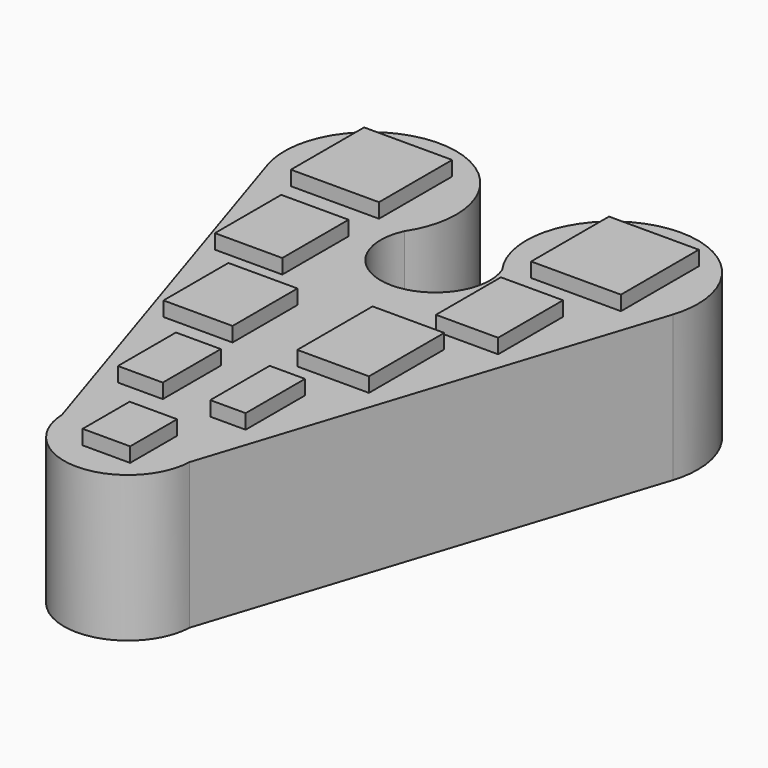
from build123d import *

# Parameters (mm, degrees)
F1_DEPTH = 19.05
F2_R     = 8.1268855098
F2_R_2   = 8.0990060786
F2_R_3   = 7.6686570694
F2_R_4   = 17.6929682903
F3_DEPTH = 3.81
F4_DEPTH = 6.35
F5_W     = 15.3402648866
F5_H     = 15.9418415278
F5_W_2   = 11.7307901382
F5_H_2   = 14.437895501
F5_W_3   = 12.0315793902
F5_H_3   = 14.1371053178
F5_W_4   = 7.8148348501
F5_H_4   = 12.6331597567
F5_W_5   = 8.2717118785
F5_H_5   = 10.226842016
F5_W_6   = 6.1604853713
F5_H_6   = 12.9339471459
F5_W_7   = 12.4827632681
F5_H_7   = 16.393026337
F5_W_8   = 10.8284177259
F5_H_8   = 14.1371043865
F5_W_9   = 15.6410494819
F5_H_9   = 16.9490305329
F6_DEPTH = 2.54


with BuildPart() as f1:
    # F0 (on Top) → F1 (new body)
    with BuildSketch(Plane.XY):
        with BuildLine():
            ThreePointArc((-13.5217250534, 23.8079438364), (-11.6865877588, 27.7403908158), (-11.0572251912, 32.0340804756))
            ThreePointArc((-11.0572251912, 32.0340804756), (-28.416960574, 46.8016068241), (-40.2102085436, 27.2987980688))
            ThreePointArc((-40.2102085436, 27.2987980688), (-27.9586692008, 17.1993784674), (-13.5217250534, 23.8079438364))
        make_face()
        with BuildLine():
            ThreePointArc((-13.5217250534, 23.8079438364), (-27.9586692008, 17.1993784674), (-40.2102085436, 27.2987980688))
            Line((-40.2102085436, 27.2987980688), (-16.0865467286, -47.5395652548))
            ThreePointArc((-16.0865467286, -47.5395652548), (-12.9985133333, -39.3676590618), (-4.963026382, -35.9402766009))
            Line((-4.963026382, -35.9402766009), (-4.963026382, 10.2515674402))
            ThreePointArc((-4.963026382, 10.2515674402), (-12.9451700449, 14.6920290982), (-13.5217250534, 23.8079438364))
        make_face()
        with BuildLine():
            Line((-14.2646919421, -53.1914696578), (-16.0865467286, -47.5395652548))
            ThreePointArc((-16.0865467286, -47.5395652548), (-15.5593965471, -50.4892255554), (-14.2646919421, -53.1914696578))
        make_face()
        with BuildLine():
            ThreePointArc((-4.963026382, -35.9402766009), (-12.9985133333, -39.3676590618), (-16.0865467286, -47.5395652548))
            Line((-16.0865467286, -47.5395652548), (-14.2646919421, -53.1914696578))
            ThreePointArc((-14.2646919421, -53.1914696578), (-4.963026382, -58.2068318943), (4.3386391781, -53.1914696578))
            Line((4.3386391781, -53.1914696578), (6.1604853713, -47.5397703272))
            ThreePointArc((6.1604853713, -47.5397703272), (6.1678095236, -47.3067134237), (6.1702512647, -47.0735542476))
            ThreePointArc((6.1702512647, -47.0735542476), (2.9093897388, -39.2011381268), (-4.963026382, -35.9402766009))
        make_face()
        with BuildLine():
            ThreePointArc((3.9810605477, 23.2504104806), (2.9582476584, 14.377684043), (-4.963026382, 10.2515674402))
            Line((-4.963026382, 10.2515674402), (-4.963026382, -35.9402766009))
            ThreePointArc((-4.963026382, -35.9402766009), (2.9093897388, -39.2011381268), (6.1702512647, -47.0735542476))
            ThreePointArc((6.1702512647, -47.0735542476), (6.1678095236, -47.3067134237), (6.1604853713, -47.5397703272))
            Line((6.1604853713, -47.5397703272), (30.331755145, 27.443919136))
            ThreePointArc((30.331755145, 27.443919136), (18.4435852345, 17.2589453635), (3.9810605477, 23.2504104806))
        make_face()
        with BuildLine():
            ThreePointArc((31.0533017431, 32.0340804756), (11.4750214501, 46.2648490943), (3.9810605477, 23.2504104806))
            ThreePointArc((3.9810605477, 23.2504104806), (18.4435852345, 17.2589453635), (30.331755145, 27.443919136))
            ThreePointArc((30.331755145, 27.443919136), (30.8718143134, 29.7108171125), (31.0533017431, 32.0340804756))
        make_face()
        with BuildLine():
            Line((6.1604853713, -47.5397703272), (4.3386391781, -53.1914696578))
            ThreePointArc((4.3386391781, -53.1914696578), (5.6333122971, -50.4893232323), (6.1604853713, -47.5397703272))
        make_face()
    extrude(amount=F1_DEPTH)

    # F2 (on face) → F3 (cut)
    with BuildSketch(Plane(origin=(0, 0, 0), x_dir=(1, 0, 0), z_dir=(0, 0, -1))):
        with Locations((-26.0182898492, -32.0340804756)):
            Circle(F2_R)
        with Locations((16.0922370851, -32.0340804756)):
            Circle(F2_R_2)
        with Locations((-4.963026382, 47.0735542476)):
            Circle(F2_R_3)
        with Locations((-5.263815634, 11.279605329)):
            Circle(F2_R_4)
    extrude(amount=-F3_DEPTH, mode=Mode.SUBTRACT)

    # F4 (add): a face of the model
    f4_faces = [f1.faces().sort_by_distance(p)[0] for p in [
        (-4.9663739945, 1.7972425915, 19.05),
    ]]
    extrude(f4_faces, amount=F4_DEPTH)

    # F5 (on face) → F6 (join)
    with BuildSketch(Plane.XY.offset(25.4)):
        with Locations((-26.1686835438, 32.4852624908)):
            Rectangle(F5_W, F5_H)
        with Locations((-24.3639461696, 10.6780267088)):
            Rectangle(F5_W_2, F5_H_2)
        with Locations((-17.2953950241, -9.3244736781)):
            Rectangle(F5_W_3, F5_H_3)
        with Locations((-12.1791293035, -29.026184231)):
            Rectangle(F5_W_4, F5_H_4)
        with Locations((-4.1358559392, -47.6751308888)):
            Rectangle(F5_W_5, F5_H_5)
        with Locations((3.0802426856, -28.8757905364)):
            Rectangle(F5_W_6, F5_H_6)
        with Locations((6.241381634, -8.1965131685)):
            Rectangle(F5_W_7, F5_H_7)
        with Locations((13.6859207414, 10.5276311515)):
            Rectangle(F5_W_8, F5_H_8)
        with Locations((16.3930258714, 32.2824591028)):
            Rectangle(F5_W_9, F5_H_9)
    extrude(amount=F6_DEPTH)


solid = f1.part
